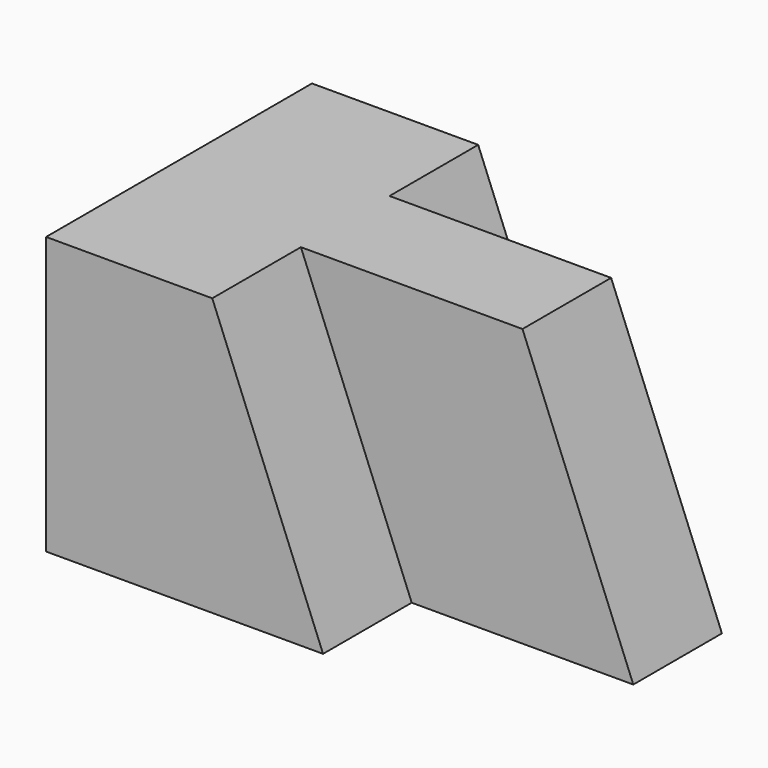
from build123d import *

# Parameters (mm, degrees)
F1_DEPTH = 31.75
F3_DEPTH = 12.7
F5_DEPTH = 12.7
F7_DEPTH = 12.7
F8_DEPTH = 25.4


with BuildPart() as f1:
    # F0 (on Top) → F1 (new body)
    with BuildSketch(Plane.XY):
        Polygon((0, 38.1), (0, 0), (31.75, 0), (31.75, 12.7), (57.15, 12.7), (57.15, 25.4), (31.75, 25.4), (31.75, 38.1), align=None)
    extrude(amount=F1_DEPTH)

    # F2 (on face) → F3 (cut)
    with BuildSketch(Plane.XZ):
        Polygon((31.75, 31.75), (19.05, 31.75), (31.75, 0), align=None)
    extrude(amount=-F3_DEPTH, mode=Mode.SUBTRACT)

    # F4 (on face) → F5 (cut)
    with BuildSketch(Plane.XZ.offset(-12.7)):
        Polygon((57.15, 31.75), (44.45, 31.75), (57.15, 0), align=None)
    extrude(amount=-F5_DEPTH, mode=Mode.SUBTRACT)

    # F6 (on face) → F7 (cut)
    with BuildSketch(Plane(origin=(0, 38.1, 0), x_dir=(-1, 0, 0), z_dir=(0, 1, 0))):
        Polygon((-31.75, 0), (-19.05, 31.75), (-31.75, 31.75), align=None)
    extrude(amount=-F7_DEPTH, mode=Mode.SUBTRACT)

    # F4 (on face) → F8 (cut)
    with BuildSketch(Plane.XZ.offset(-12.7)):
        Polygon((57.15, 31.75), (44.45, 31.75), (57.15, 0), align=None)
    extrude(amount=-F8_DEPTH, mode=Mode.SUBTRACT)


solid = f1.part
